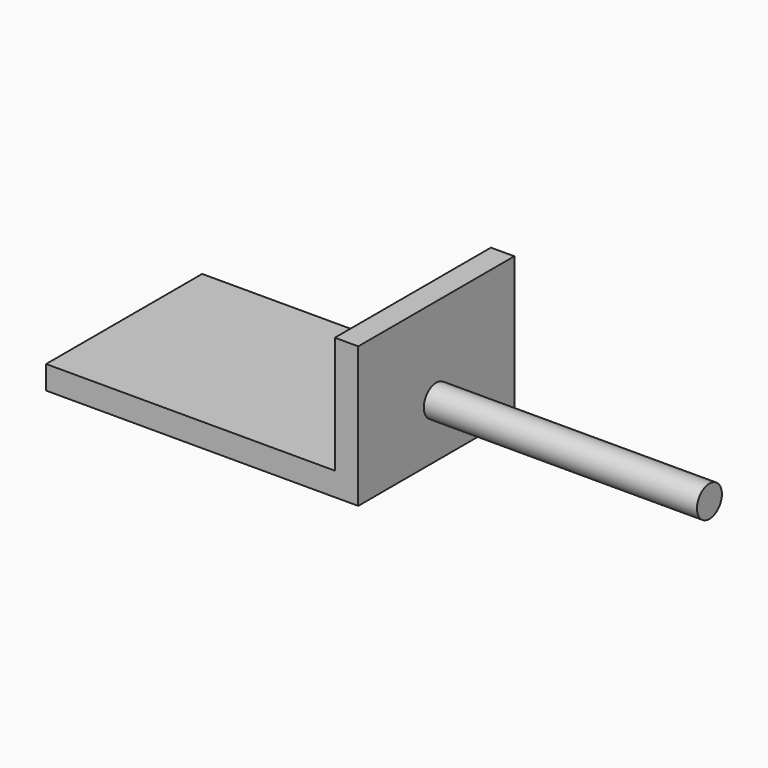
from build123d import *

# Parameters (mm, degrees)
F2_DEPTH = 12.5
F1_W     = 35
F1_H     = 2


with BuildPart() as f2:
    # F0 (on Front) → F2 (new body, symmetric)
    with BuildSketch(Plane.XZ):
        Polygon((0, 0), (-37, 0), (-37, -3), (3, -3), (3, 15), (0, 15), align=None)
    extrude(amount=F2_DEPTH, both=True)

    # F1 (on Front) → F3 (revolve)
    with BuildSketch(Plane.XZ):
        with Locations((20.5, 2.824878)):
            Rectangle(F1_W, F1_H)
    revolve(axis=Axis((20.5, 0, 3.824878), (1, 0, 0)))


solid = f2.part
